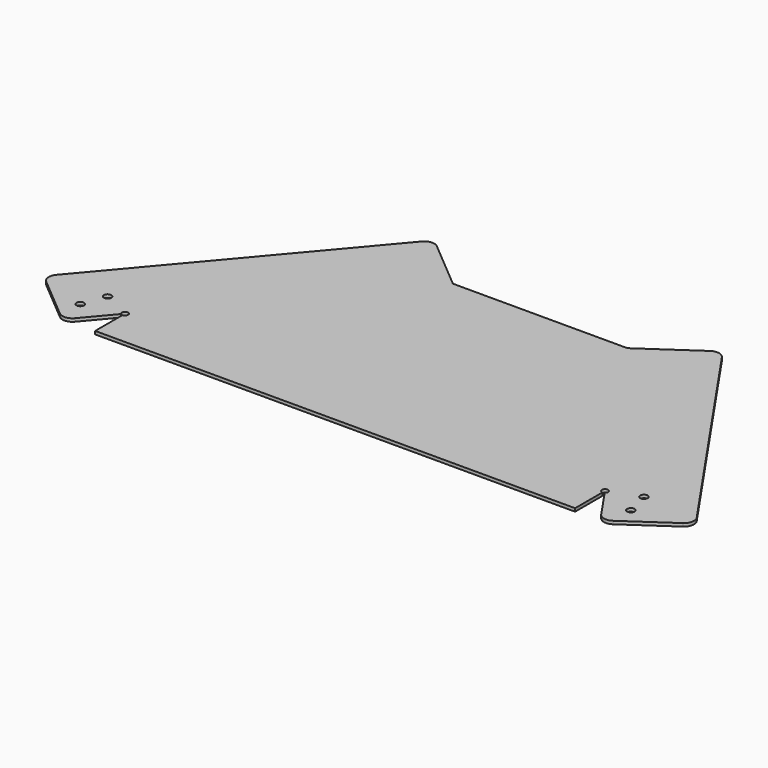
from build123d import *

# Parameters (mm, degrees)
F0_R     = 1.89865
F1_DEPTH = 1.5875
F2_R     = 5.08
F4_DEPTH = 1.5875


with BuildPart() as f1:
    # F0 (on Top) → F1 (new body)
    with BuildSketch(Plane.XY):
        Polygon((-33.3375, 56.7449798869), (-119.0625, -44.8550201131), (-119.0625, -63.9050201131), (125.4125, -63.9050201131), (125.4125, -44.8550201131), (55.5625, 56.7449798869), (46.0375, 56.7449798869), (17.4625, 56.7449798869), (0, 56.7449798869), align=None)
        Polygon((-135.4422218559, -64.2680237942), (-119.0625, -44.8550201131), (-33.3375, 56.7449798869), (-62.4570055217, 81.3145626708), (-164.5617273776, -39.6984410103), align=None)
        with Locations((-138.1131343099, -49.5519186622)):
            Circle(F0_R, mode=Mode.SUBTRACT)
        with Locations((-133.7370015814, -37.6296931006)):
            Circle(F0_R, mode=Mode.SUBTRACT)
        Polygon((55.5625, 56.7449798869), (125.4125, -44.8550201131), (139.7551548144, -65.8180411948), (171.1511521264, -44.2332930428), (86.9113565218, 78.2973187457), align=None)
        with Locations((143.8612788229, -51.4362030224)):
            Circle(F0_R, mode=Mode.SUBTRACT)
        with Locations((140.6796238031, -39.1412011381)):
            Circle(F0_R, mode=Mode.SUBTRACT)
    extrude(amount=F1_DEPTH)

    # F2
    f2_edges = [f1.edges().sort_by_distance(p)[0] for p in [
        (-164.561727, -39.698441, 0.79375),
        (-135.442222, -64.268024, 0.79375),
        (139.755155, -65.818041, 0.79375),
        (171.151152, -44.233293, 0.79375),
        (86.911357, 78.297319, 0.79375),
        (-62.457006, 81.314563, 0.79375),
    ]]
    fillet(f2_edges, radius=F2_R)

    # F3 (on face) → F4 (cut, through all)
    with BuildSketch(Plane.XY.offset(1.5875)):
        with BuildLine():
            ThreePointArc((127, -44.8550201131), (124.2899679849, -43.7324880979), (125.4125, -46.4425201131))
            Line((125.4125, -46.4425201131), (125.4125, -44.8550201131))
            Line((125.4125, -44.8550201131), (126.3089159259, -46.1652089307))
            ThreePointArc((126.3089159259, -46.1652089307), (126.816639689, -45.5956603657), (127, -44.8550201131))
        make_face()
        with BuildLine():
            ThreePointArc((-119.0625, -46.4425201131), (-117.9399679849, -45.9775521282), (-117.475, -44.8550201131))
            ThreePointArc((-117.475, -44.8550201131), (-119.7314472035, -43.4153444937), (-120.086232616, -46.0683328431))
            Line((-120.086232616, -46.0683328431), (-119.0625, -44.8550201131))
            Line((-119.0625, -44.8550201131), (-119.0625, -46.4425201131))
        make_face()
    extrude(amount=-F4_DEPTH, mode=Mode.SUBTRACT)


solid = f1.part
